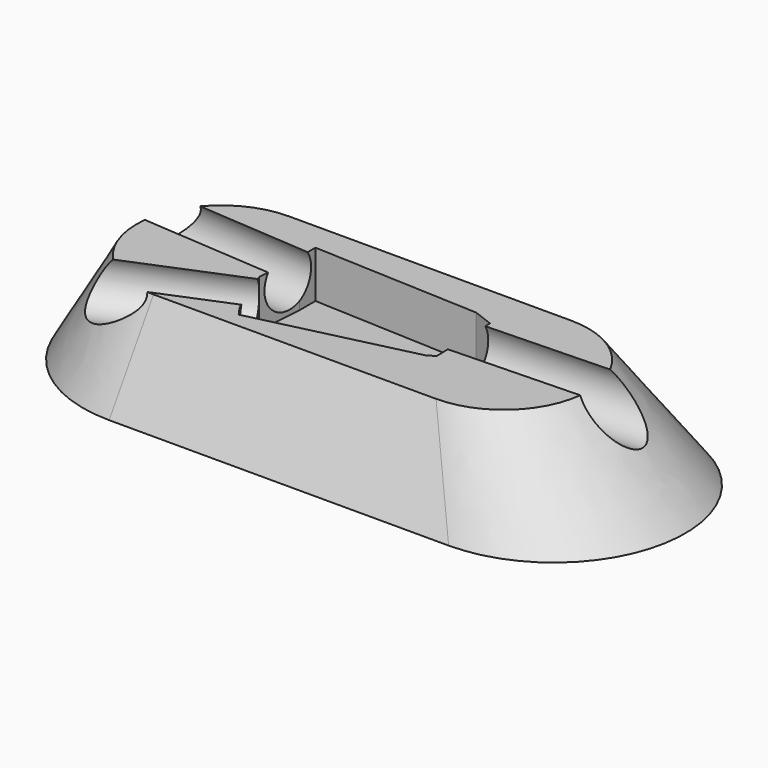
from build123d import *

# Parameters (mm, degrees)
POCKET_DEPTH    = 5
SKETCH005_R     = 2.917562
POCKET001_DEPTH = 20.6489723154
SKETCH006_R     = 2.917562
POCKET002_DEPTH = 23.0482544438
SKETCH007_R     = 3
POCKET003_DEPTH = 24.5764305412


with BuildPart() as part:
    # Sketch002 → Loft section 0
    with BuildSketch(Plane.XY.offset(10)):
        with BuildLine():
            ThreePointArc((-11.343506, 11.1193269091), (-20.3555434545, 2.1072894545), (-11.343506, -6.904748))
            Line((-11.343506, -6.904748), (18.7414073452, -6.904748))
            ThreePointArc((18.7414073452, -6.904748), (27.7534447997, 2.1072894545), (18.7414073452, 11.1193269091))
            Line((-11.343506, 11.1193269091), (18.7414073452, 11.1193269091))
        make_face()
    # Sketch003 → Loft section 1
    with BuildSketch(Plane.XY):
        with BuildLine():
            ThreePointArc((-12.0831570349, 16.0971179095), (-26.0729854896, 2.1072894547), (-12.0831570349, -11.882539))
            Line((-12.0831570349, -11.882539), (24.0627546777, -11.882539))
            ThreePointArc((24.0627546777, -11.882539), (38.0525831324, 2.1072894547), (24.0627546777, 16.0971179095))
            Line((-12.0831570349, 16.0971179095), (24.0627546777, 16.0971179095))
        make_face()
    loft()

    # Sketch001 → Pocket (cut)
    with BuildSketch(Plane.XY.offset(10)):
        Polygon((-6.094202, 5.983397), (-6.094202, 8.088668), (11.634386, 7.313041), (13.752719, 6.511327), (13.97268, -0.847062), (13.185631, -1.329644), (-3.545716, -5.318575), (-4.282123, -4.272569), (-6.45014, 0.995308), align=None)
    extrude(amount=-POCKET_DEPTH, mode=Mode.SUBTRACT)

    # Sketch005 → Pocket001 (cut, through all)
    with BuildSketch(Plane(origin=(-6.4881258553, 0.462977012, 0), x_dir=(0.0711766059, 0.9974637291, 0), z_dir=(0.9974637291, -0.0711766059, 0))):
        with Locations((4.141323, 8.428433)):
            Circle(SKETCH005_R)
    extrude(amount=-POCKET001_DEPTH, mode=Mode.SUBTRACT)

    # Sketch006 → Pocket002 (cut, through all)
    with BuildSketch(Plane(origin=(-5.1655859853, -2.1259187014, 0), x_dir=(-0.3805833694, 0.9247466134, 0), z_dir=(0.9247466134, 0.3805833694, 0))):
        with Locations((0.622215, 8.350686)):
            Circle(SKETCH006_R)
    extrude(amount=-POCKET002_DEPTH, mode=Mode.SUBTRACT)

    # Sketch007 → Pocket003 (cut, through all)
    with BuildSketch(Plane(origin=(13.9349074201, 0.4165498958, 0), x_dir=(0.029879202, -0.999553517, 0), z_dir=(-0.999553517, -0.029879202, 0))):
        with Locations((-2.85774, 8.49941)):
            Circle(SKETCH007_R)
    extrude(amount=-POCKET003_DEPTH, mode=Mode.SUBTRACT)


solid = part.part
